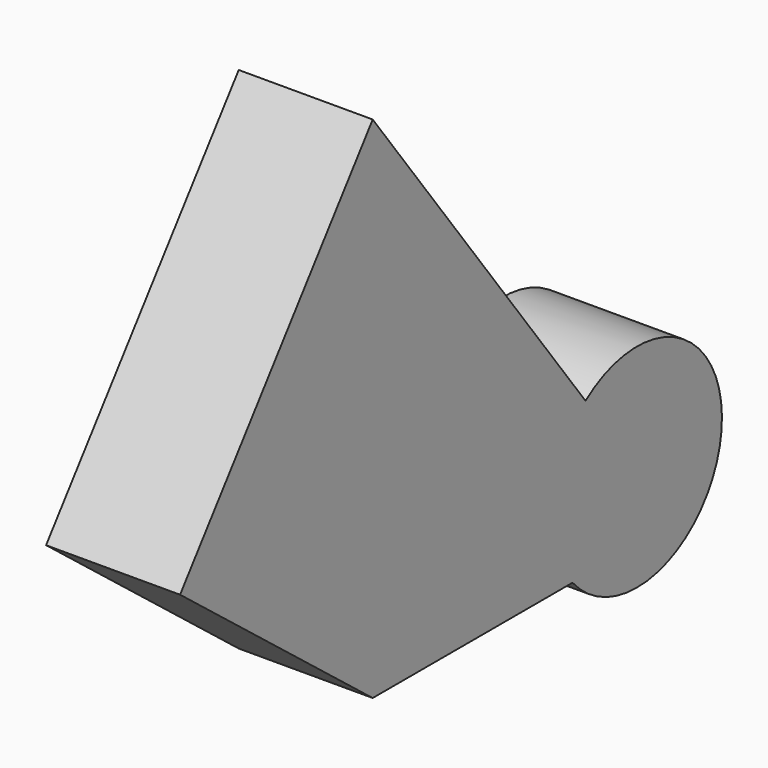
from build123d import *

# Parameters (mm, degrees)
F1_DEPTH = 25.4
F2_R     = 20.123554
F3_DEPTH = 25.4


with BuildPart() as f1:
    # F0 (on Right) → F1 (new body)
    with BuildSketch(Plane.YZ):
        Polygon((-62.632762, 60.754042), (-62.632762, -35.799541), (9.55416, -35.799541), align=None)
        Polygon((-62.632762, 60.754042), (-108.280346, 0), (-62.632762, -35.799541), align=None)
    extrude(amount=F1_DEPTH)

    # F2 (on Right) → F3 (join)
    with BuildSketch(Plane.YZ):
        with Locations((0, -22.702746)):
            Circle(F2_R)
    extrude(amount=F3_DEPTH)


solid = f1.part
